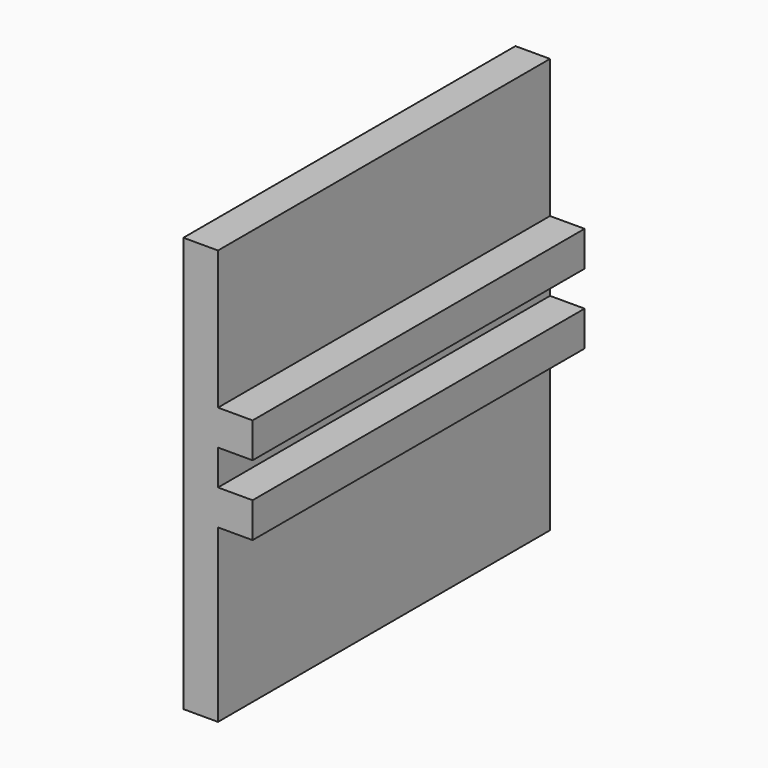
from build123d import *

# Parameters (mm, degrees)
F0_W     = 300
F0_H     = 300
F1_DEPTH = 25
F2_W     = 300
F2_H     = 25.4
F3_DEPTH = 25


with BuildPart() as f1:
    # F0 (on Right) → F1 (new body)
    with BuildSketch(Plane.YZ):
        Rectangle(F0_W, F0_H)
    extrude(amount=F1_DEPTH)

    # F2 (on face) → F3 (join)
    with BuildSketch(Plane.YZ.offset(25)):
        with Locations((0, -13.5)):
            Rectangle(F2_W, F2_H)
        with Locations((0, 37.3)):
            Rectangle(F2_W, F2_H)
    extrude(amount=F3_DEPTH)


solid = f1.part
